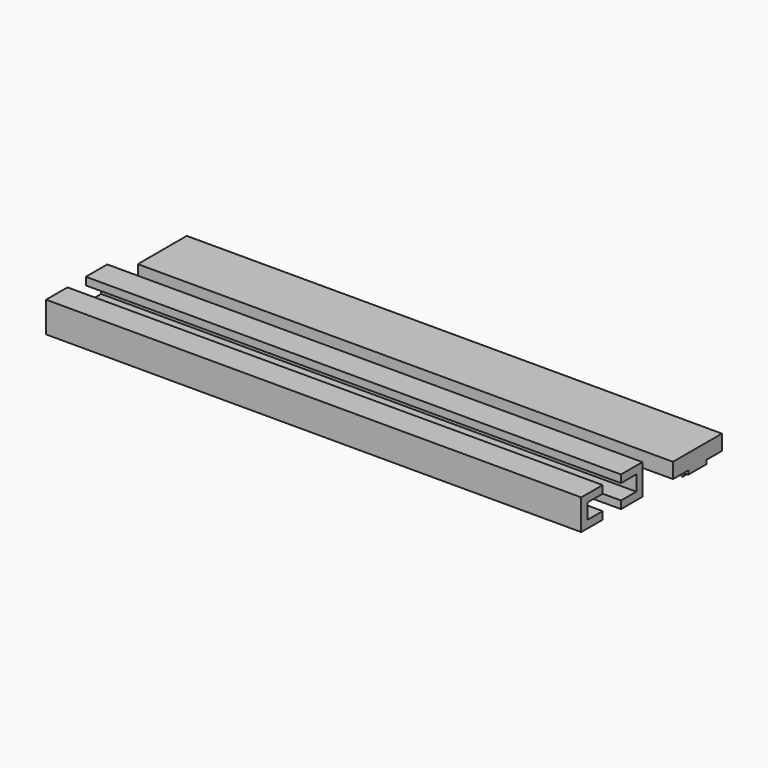
from build123d import *

# Parameters (mm, degrees)
F0_W     = 177.8
F0_H     = 10.16
F1_DEPTH = 25.4
F2_T     = -2.54
F3_DEPTH = 25.4
F4_W     = 177.8
F4_H     = 7.62
F5_DEPTH = 25.4
F6_W     = 7.62
F6_H     = 2.54
F7_DEPTH = 177.8
F9_DEPTH = 25.4
F10_R    = 0.381


with BuildPart() as f1:
    # F0 (on Front) → F1 (new body)
    with BuildSketch(Plane.XZ):
        with Locations((-88.9, 5.08)):
            Rectangle(F0_W, F0_H)
    extrude(amount=F1_DEPTH)

    # F2
    f2_openings = [f1.faces().sort_by_distance(p)[0] for p in [
        (-177.8, -12.7, 5.08),
    ]]
    offset(amount=F2_T, openings=f2_openings)

    # F3 (cut): a face of the model
    f3_faces = [f1.faces().sort_by_distance(p)[0] for p in [
        (-2.54, -12.7, 5.08),
    ]]
    extrude(f3_faces, amount=-F3_DEPTH, mode=Mode.SUBTRACT)

    # F4 (on face) → F5 (cut)
    with BuildSketch(Plane.XY.offset(10.16)):
        with Locations((-88.9, -12.7)):
            Rectangle(F4_W, F4_H)
    extrude(amount=-F5_DEPTH, mode=Mode.SUBTRACT)


with BuildPart() as f7:
    # F6 (on Right) → F7 (new body)
    with BuildSketch(Plane.YZ):
        with Locations((22.8599988563, -1.27)):
            Rectangle(F6_W, F6_H)
        Polygon((12.6999988563, 5.08), (12.6999988563, 0), (19.0499988563, 0), (26.6699988563, 0), (33.0199988563, 0), (33.0199988563, 5.08), align=None)
    extrude(amount=-F7_DEPTH)

    # F8 (on face) → F9 (cut)
    with BuildSketch(Plane.XZ.offset(-19.0499988563)):
        Polygon((0, -2.54), (0, -1.27), (-0.7380522325, -1.27), (-1.0016095445, -1.27), (-1.2651668565, -1.27), (-1.8573775824, -2.54), align=None)
        Polygon((-4.057801268, -2.54), (-2.3653775824, -2.54), (-2.9575894252, -1.2699976047), (-3.2115894252, -1.2699976047), (-3.4655894252, -1.2699976047), align=None)
        Polygon((-6.2773373438, -2.54), (-4.565801268, -2.54), (-5.1580119939, -1.27), (-5.4215693059, -1.27), (-5.6851266179, -1.27), align=None)
        Polygon((-8.4777610294, -2.54), (-6.7853373438, -2.54), (-7.3775491866, -1.2699976047), (-7.6315491866, -1.2699976047), (-7.8855491866, -1.2699976047), align=None)
        Polygon((-10.6972971052, -2.54), (-8.9857610294, -2.54), (-9.5779717552, -1.27), (-9.8415290673, -1.27), (-10.1050863793, -1.27), align=None)
        Polygon((-12.8977207908, -2.54), (-11.2052971052, -2.54), (-11.797508948, -1.2699976047), (-12.051508948, -1.2699976047), (-12.305508948, -1.2699976047), align=None)
        Polygon((-15.1172568666, -2.54), (-13.4057207908, -2.54), (-13.9979315166, -1.27), (-14.2614888287, -1.27), (-14.5250461407, -1.27), align=None)
        Polygon((-17.3176805522, -2.54), (-15.6252568666, -2.54), (-16.2174687094, -1.2699976047), (-16.4714687094, -1.2699976047), (-16.7254687094, -1.2699976047), align=None)
        Polygon((-19.5372166279, -2.54), (-17.8256805522, -2.54), (-18.417891278, -1.27), (-18.6814485901, -1.27), (-18.9450059021, -1.27), align=None)
        Polygon((-21.7376403135, -2.54), (-20.0452166279, -2.54), (-20.6374284707, -1.2699976047), (-20.8914284707, -1.2699976047), (-21.1454284707, -1.2699976047), align=None)
        Polygon((-23.9571763893, -2.54), (-22.2456403135, -2.54), (-22.8378510394, -1.27), (-23.1014083514, -1.27), (-23.3649656635, -1.27), align=None)
        Polygon((-26.1576000749, -2.54), (-24.4651763893, -2.54), (-25.0573882321, -1.2699976047), (-25.3113882321, -1.2699976047), (-25.5653882321, -1.2699976047), align=None)
        Polygon((-28.3771361507, -2.54), (-26.6656000749, -2.54), (-27.2578108008, -1.27), (-27.5213681128, -1.27), (-27.7849254249, -1.27), align=None)
        Polygon((-30.5775598363, -2.54), (-28.8851361507, -2.54), (-29.4773479935, -1.2699976047), (-29.7313479935, -1.2699976047), (-29.9853479935, -1.2699976047), align=None)
        Polygon((-32.7970959121, -2.54), (-31.0855598363, -2.54), (-31.6777705622, -1.27), (-31.9413278742, -1.27), (-32.2048851862, -1.27), align=None)
        Polygon((-34.9975195977, -2.54), (-33.3050959121, -2.54), (-33.8973077549, -1.2699976047), (-34.1513077549, -1.2699976047), (-34.4053077549, -1.2699976047), align=None)
        Polygon((-36.3612876356, -2.54), (-35.5055195977, -2.54), (-36.0977303236, -1.27), (-36.3612876356, -1.27), align=None)
        Polygon((-37.2170556735, -2.54), (-36.3612876356, -2.54), (-36.3612876356, -1.27), (-36.6248449476, -1.27), align=None)
        Polygon((-39.4174793591, -2.54), (-37.7250556735, -2.54), (-38.3172675163, -1.2699976047), (-38.5712675163, -1.2699976047), (-38.8252675163, -1.2699976047), align=None)
        Polygon((-41.6370154349, -2.54), (-39.9254793591, -2.54), (-40.517690085, -1.27), (-40.781247397, -1.27), (-41.044804709, -1.27), align=None)
        Polygon((-43.8374391205, -2.54), (-42.1450154349, -2.54), (-42.7372272777, -1.2699976047), (-42.9912272777, -1.2699976047), (-43.2452272777, -1.2699976047), align=None)
        Polygon((-46.0569751963, -2.54), (-44.3454391205, -2.54), (-44.9376498463, -1.27), (-45.2012071584, -1.27), (-45.4647644704, -1.27), align=None)
        Polygon((-48.2573988819, -2.54), (-46.5649751963, -2.54), (-47.1571870391, -1.2699976047), (-47.4111870391, -1.2699976047), (-47.6651870391, -1.2699976047), align=None)
        Polygon((-50.4769349577, -2.54), (-48.7653988819, -2.54), (-49.3576096077, -1.27), (-49.6211669198, -1.27), (-49.8847242318, -1.27), align=None)
        Polygon((-52.6773586433, -2.54), (-50.9849349577, -2.54), (-51.5771468005, -1.2699976047), (-51.8311468005, -1.2699976047), (-52.0851468005, -1.2699976047), align=None)
        Polygon((-54.896894719, -2.54), (-53.1853586433, -2.54), (-53.7775693691, -1.27), (-54.0411266812, -1.27), (-54.3046839932, -1.27), align=None)
        Polygon((-57.0973184046, -2.54), (-55.404894719, -2.54), (-55.9971065618, -1.2699976047), (-56.2511065618, -1.2699976047), (-56.5051065618, -1.2699976047), align=None)
        Polygon((-59.3168544804, -2.54), (-57.6053184046, -2.54), (-58.1975291305, -1.27), (-58.4610864425, -1.27), (-58.7246437546, -1.27), align=None)
        Polygon((-61.517278166, -2.54), (-59.8248544804, -2.54), (-60.4170663232, -1.2699976047), (-60.6710663232, -1.2699976047), (-60.9250663232, -1.2699976047), align=None)
        Polygon((-63.7368142418, -2.54), (-62.025278166, -2.54), (-62.6174888919, -1.27), (-62.8810462039, -1.27), (-63.144603516, -1.27), align=None)
        Polygon((-65.9372379274, -2.54), (-64.2448142418, -2.54), (-64.8370260846, -1.2699976047), (-65.0910260846, -1.2699976047), (-65.3450260846, -1.2699976047), align=None)
        Polygon((-68.1567740032, -2.54), (-66.4452379274, -2.54), (-67.0374486533, -1.27), (-67.3010059653, -1.27), (-67.5645632773, -1.27), align=None)
        Polygon((-70.3571976888, -2.54), (-68.6647740032, -2.54), (-69.256985846, -1.2699976047), (-69.510985846, -1.2699976047), (-69.764985846, -1.2699976047), align=None)
        Polygon((-72.5767337646, -2.54), (-70.8651976888, -2.54), (-71.4574084147, -1.27), (-71.7209657267, -1.27), (-71.9845230387, -1.27), align=None)
        Polygon((-74.7771574502, -2.54), (-73.0847337646, -2.54), (-73.6769456074, -1.2699976047), (-73.9309456074, -1.2699976047), (-74.1849456074, -1.2699976047), align=None)
        Polygon((-76.996693526, -2.54), (-75.2851574502, -2.54), (-75.8773681761, -1.27), (-76.1409254881, -1.27), (-76.4044828001, -1.27), align=None)
        Polygon((-79.1971172116, -2.54), (-77.504693526, -2.54), (-78.0969053688, -1.2699976047), (-78.3509053688, -1.2699976047), (-78.6049053688, -1.2699976047), align=None)
        Polygon((-81.4166532874, -2.54), (-79.7051172116, -2.54), (-80.2973279374, -1.27), (-80.5608852495, -1.27), (-80.8244425615, -1.27), align=None)
        Polygon((-83.617076973, -2.54), (-81.9246532874, -2.54), (-82.5168651302, -1.2699976047), (-82.7708651302, -1.2699976047), (-83.0248651302, -1.2699976047), align=None)
        Polygon((-85.8366130488, -2.54), (-84.125076973, -2.54), (-84.7172876988, -1.27), (-84.9808450109, -1.27), (-85.2444023229, -1.27), align=None)
        Polygon((-87.4448248916, -1.2699976047), (-88.0370367344, -2.54), (-86.3446130488, -2.54), (-86.9368248916, -1.2699976047), (-87.1908248916, -1.2699976047), align=None)
        Polygon((-89.6643620843, -1.27), (-90.2565728101, -2.54), (-88.5450367344, -2.54), (-89.1372474602, -1.27), (-89.4008047723, -1.27), align=None)
        Polygon((-91.8647846529, -1.2699976047), (-92.4569964957, -2.54), (-90.7645728101, -2.54), (-91.3567846529, -1.2699976047), (-91.6107846529, -1.2699976047), align=None)
        Polygon((-94.0843218457, -1.27), (-94.6765325715, -2.54), (-92.9649964957, -2.54), (-93.5572072216, -1.27), (-93.8207645336, -1.27), align=None)
        Polygon((-96.2847444143, -1.2699976047), (-96.8769562571, -2.54), (-95.1845325715, -2.54), (-95.7767444143, -1.2699976047), (-96.0307444143, -1.2699976047), align=None)
        Polygon((-98.5042816071, -1.27), (-99.0964923329, -2.54), (-97.3849562571, -2.54), (-97.977166983, -1.27), (-98.240724295, -1.27), align=None)
        Polygon((-100.7047041757, -1.2699976047), (-101.2969160185, -2.54), (-99.6044923329, -2.54), (-100.1967041757, -1.2699976047), (-100.4507041757, -1.2699976047), align=None)
        Polygon((-102.9242413684, -1.27), (-103.5164520943, -2.54), (-101.8049160185, -2.54), (-102.3971267444, -1.27), (-102.6606840564, -1.27), align=None)
        Polygon((-100.7047041757, -1.2699976047), (-101.2969160185, -2.54), (-99.6044923329, -2.54), (-100.1967041757, -1.2699976047), (-100.4507041757, -1.2699976047), align=None)
        Polygon((-105.1246639371, -1.2699976047), (-105.7168757799, -2.54), (-104.0244520943, -2.54), (-104.6166639371, -1.2699976047), (-104.8706639371, -1.2699976047), align=None)
        Polygon((-107.3442011298, -1.27), (-107.9364118557, -2.54), (-106.2248757799, -2.54), (-106.8170865058, -1.27), (-107.0806438178, -1.27), align=None)
        Polygon((-109.5446236985, -1.2699976047), (-110.1368355413, -2.54), (-108.4444118557, -2.54), (-109.0366236985, -1.2699976047), (-109.2906236985, -1.2699976047), align=None)
        Polygon((-111.7641608912, -1.27), (-112.3563716171, -2.54), (-110.6448355413, -2.54), (-111.2370462672, -1.27), (-111.5006035792, -1.27), align=None)
        Polygon((-113.9645834599, -1.2699976047), (-114.5567953027, -2.54), (-112.8643716171, -2.54), (-113.4565834599, -1.2699976047), (-113.7105834599, -1.2699976047), align=None)
        Polygon((-116.1841206526, -1.27), (-116.7763313785, -2.54), (-115.0647953027, -2.54), (-115.6570060285, -1.27), (-115.9205633406, -1.27), align=None)
        Polygon((-118.3845432213, -1.2699976047), (-118.9767550641, -2.54), (-117.2843313785, -2.54), (-117.8765432213, -1.2699976047), (-118.1305432213, -1.2699976047), align=None)
        Polygon((-120.604080414, -1.27), (-121.1962911399, -2.54), (-119.4847550641, -2.54), (-120.0769657899, -1.27), (-120.340523102, -1.27), align=None)
        Polygon((-122.8045029827, -1.2699976047), (-123.3967148255, -2.54), (-121.7042911399, -2.54), (-122.2965029827, -1.2699976047), (-122.5505029827, -1.2699976047), align=None)
        Polygon((-125.0240401754, -1.27), (-125.6162509012, -2.54), (-123.9047148255, -2.54), (-124.4969255513, -1.27), (-124.7604828634, -1.27), align=None)
        Polygon((-127.224462744, -1.2699976047), (-127.8166745868, -2.54), (-126.1242509012, -2.54), (-126.716462744, -1.2699976047), (-126.970462744, -1.2699976047), align=None)
        Polygon((-129.4439999368, -1.27), (-130.0362106626, -2.54), (-128.3246745868, -2.54), (-128.9168853127, -1.27), (-129.1804426247, -1.27), align=None)
        Polygon((-131.6444225054, -1.2699976047), (-132.2366343482, -2.54), (-130.5442106626, -2.54), (-131.1364225054, -1.2699976047), (-131.3904225054, -1.2699976047), align=None)
        Polygon((-133.8639596982, -1.27), (-134.456170424, -2.54), (-132.7446343482, -2.54), (-133.3368450741, -1.27), (-133.6004023861, -1.27), align=None)
        Polygon((-136.0643822668, -1.2699976047), (-136.6565941096, -2.54), (-134.964170424, -2.54), (-135.5563822668, -1.2699976047), (-135.8103822668, -1.2699976047), align=None)
        Polygon((-138.2839194595, -1.27), (-138.8761301854, -2.54), (-137.1645941096, -2.54), (-137.7568048355, -1.27), (-138.0203621475, -1.27), align=None)
        Polygon((-140.4843420282, -1.2699976047), (-141.076553871, -2.54), (-139.3841301854, -2.54), (-139.9763420282, -1.2699976047), (-140.2303420282, -1.2699976047), align=None)
        Polygon((-142.7038792209, -1.27), (-143.2960899468, -2.54), (-141.584553871, -2.54), (-142.1767645969, -1.27), (-142.4403219089, -1.27), align=None)
        Polygon((-144.9043017896, -1.2699976047), (-145.4965136324, -2.54), (-143.8040899468, -2.54), (-144.3963017896, -1.2699976047), (-144.6503017896, -1.2699976047), align=None)
        Polygon((-147.1238389823, -1.27), (-147.7160497082, -2.54), (-146.0045136324, -2.54), (-146.5967243583, -1.27), (-146.8602816703, -1.27), align=None)
        Polygon((-149.324261551, -1.2699976047), (-149.9164733938, -2.54), (-148.2240497082, -2.54), (-148.816261551, -1.2699976047), (-149.070261551, -1.2699976047), align=None)
        Polygon((-151.5437987437, -1.27), (-152.1360094696, -2.54), (-150.4244733938, -2.54), (-151.0166841196, -1.27), (-151.2802414317, -1.27), align=None)
        Polygon((-153.7442213124, -1.2699976047), (-154.3364331552, -2.54), (-152.6440094696, -2.54), (-153.2362213124, -1.2699976047), (-153.4902213124, -1.2699976047), align=None)
        Polygon((-155.9637585051, -1.27), (-156.555969231, -2.54), (-154.8444331552, -2.54), (-155.436643881, -1.27), (-155.7002011931, -1.27), align=None)
        Polygon((-158.1641810738, -1.2699976047), (-158.7563929166, -2.54), (-157.063969231, -2.54), (-157.6561810738, -1.2699976047), (-157.9101810738, -1.2699976047), align=None)
        Polygon((-160.3837182665, -1.27), (-160.9759289923, -2.54), (-159.2643929166, -2.54), (-159.8566036424, -1.27), (-160.1201609545, -1.27), align=None)
        Polygon((-162.5841408351, -1.2699976047), (-163.1763526779, -2.54), (-161.4839289923, -2.54), (-162.0761408351, -1.2699976047), (-162.3301408351, -1.2699976047), align=None)
        Polygon((-164.8036780279, -1.27), (-165.3958887537, -2.54), (-163.6843526779, -2.54), (-164.2765634038, -1.27), (-164.5401207158, -1.27), align=None)
        Polygon((-167.0041005965, -1.2699976047), (-167.5963124393, -2.54), (-165.9038887537, -2.54), (-166.4961005965, -1.2699976047), (-166.7501005965, -1.2699976047), align=None)
        Polygon((-169.2236377893, -1.27), (-169.8158485151, -2.54), (-168.1043124393, -2.54), (-168.6965231652, -1.27), (-168.9600804772, -1.27), align=None)
        Polygon((-171.4240603579, -1.2699976047), (-172.0162722007, -2.54), (-170.3238485151, -2.54), (-170.9160603579, -1.2699976047), (-171.1700603579, -1.2699976047), align=None)
        Polygon((-173.6435975506, -1.27), (-174.2358082765, -2.54), (-172.5242722007, -2.54), (-173.1164829266, -1.27), (-173.3800402386, -1.27), align=None)
        Polygon((-175.8440201193, -1.2699976047), (-176.4362319621, -2.54), (-174.7438082765, -2.54), (-175.3360201193, -1.2699976047), (-175.5900201193, -1.2699976047), align=None)
        Polygon((-177.536442688, -1.27), (-177.8, -1.27), (-177.8, -2.54), (-176.9442319621, -2.54), align=None)
    extrude(amount=-F9_DEPTH, mode=Mode.SUBTRACT)

    # F10
    f10_edges = [f7.edges().sort_by_distance(p)[0] for p in [
        (-1.857378, 22.859999, -2.54),
        (-2.365378, 22.859999, -2.54),
        (-2.957589, 22.859999, -1.269998),
        (-1.265167, 22.859999, -1.27),
        (-3.465589, 22.859999, -1.269998),
        (-4.057801, 22.859999, -2.54),
        (-4.565801, 22.859999, -2.54),
        (-5.158012, 22.859999, -1.27),
        (-5.685127, 22.859999, -1.27),
        (-6.277337, 22.859999, -2.54),
        (-6.785337, 22.859999, -2.54),
        (-7.377549, 22.859999, -1.269998),
    ]]
    fillet(f10_edges, radius=F10_R)


solid = Compound([f1.part, f7.part])
